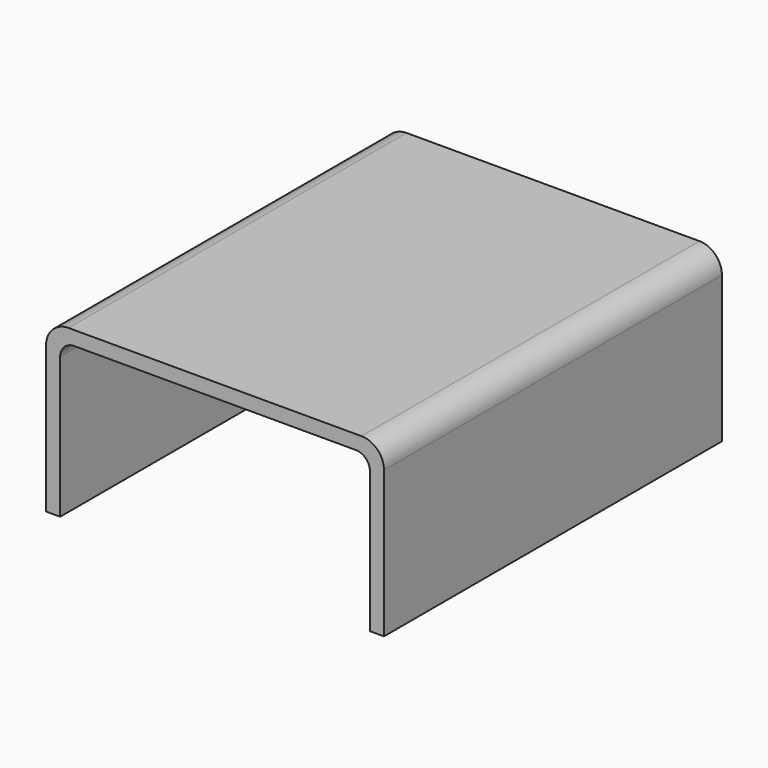
from build123d import *

# Parameters (mm, degrees)
F1_DEPTH = 75


with BuildPart() as f1:
    # F0 (on Front) → F1 (new body, symmetric)
    with BuildSketch(Plane.XZ):
        with BuildLine():
            Line((-66.232404, 52), (-66.232404, 0))
            Line((-66.232404, 0), (-61.232404, 0))
            Line((-61.232404, 0), (-61.232404, 50))
            ThreePointArc((-61.232404, 50), (-59.767938, 53.535534), (-56.232404, 55))
            Line((-56.232404, 55), (43.767596, 55))
            ThreePointArc((43.767596, 55), (47.30313, 53.535534), (48.767596, 50))
            Line((48.767596, 50), (48.767596, 0))
            Line((48.767596, 0), (53.767596, 0))
            Line((53.767596, 0), (53.767596, 52))
            ThreePointArc((53.767596, 52), (51.42445, 57.656854), (45.767596, 60))
            Line((45.767596, 60), (-58.232404, 60))
            ThreePointArc((-58.232404, 60), (-63.889258, 57.656854), (-66.232404, 52))
        make_face()
    extrude(amount=F1_DEPTH, both=True)


solid = f1.part
